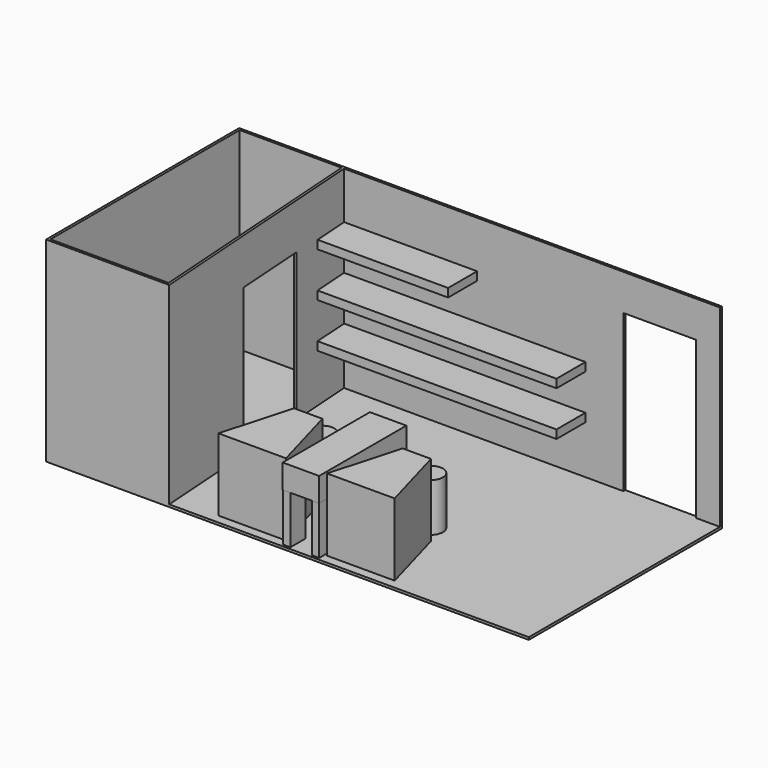
from build123d import *

# Parameters (mm, degrees)
F0_W      = 508
F0_H      = 254
F1_DEPTH  = 2.54
F3_DEPTH  = 203.2
F5_DEPTH  = 203.2
F6_W      = 76.2
F6_H      = 155.0987733221
F7_DEPTH  = 25.4
F9_DEPTH  = 76.2
F10_W     = 7.7724000598
F10_H     = 15.7987965533
F10_H_2   = 18.846809864
F10_H_3   = 19.9136117986
F11_DEPTH = 76.2
F12_W     = 38.3358041449
F12_H     = 114.723880429
F13_DEPTH = 25.4
F14_R     = 12.7
F15_DEPTH = 50.8
F16_W     = 76.2
F16_H     = 165.1
F17_DEPTH = 25.4
F18_W     = 254
F18_H     = 8.89
F18_W_2   = 139.9702800131
F19_DEPTH = 38.1


with BuildPart() as f1:
    # F0 (on Top) → F1 (new body)
    with BuildSketch(Plane.XY):
        with Locations((1.6115792096, -65.0062360242)):
            Rectangle(F0_W, F0_H)
    extrude(amount=F1_DEPTH)

    # F2 (on face) → F3 (join)
    with BuildSketch(Plane.XY.offset(2.54)):
        Polygon((-252.3884207904, 61.9937639758), (-252.3884207904, -192.0062360242), (-249.8484207904, -192.0062360242), (-249.8484207904, 59.4537639758), (255.6115792096, 59.4537639758), (255.6115792096, 61.9937639758), align=None)
    extrude(amount=F3_DEPTH)

    # F4 (on face) → F5 (join)
    with BuildSketch(Plane.XY.offset(2.54)):
        Polygon((-249.8484207904, -189.4662360242), (-249.8484207904, -192.0062360242), (-122.8484207904, -192.0062360242), (-139.9702800131, 59.4537639758), (-142.5102800131, 59.4537639758), (-125.5613688634, -189.4662360242), align=None)
    extrude(amount=F5_DEPTH)

    # F6 (on face) → F7 (cut)
    with BuildSketch(Plane(origin=(-135.2948289897, -9.2121968326, 0), x_dir=(-0.0679324996, 0.9976899195, 0), z_dir=(0.9976899195, 0.0679324996, 0))):
        with Locations((-38.1, 80.0893866611)):
            Rectangle(F6_W, F6_H)
    extrude(amount=-F7_DEPTH, mode=Mode.SUBTRACT)

    # F8 (on face) → F9 (join)
    with BuildSketch(Plane.XY.offset(2.54)):
        Polygon((-78.7540227175, -182.3542267084), (-43.1940241251, -182.3542267084), (-7.6340255328, -182.3542267084), (-28.2588265836, -108.7450310588), (-43.1940241251, -108.7450310588), (-58.1292216666, -108.7450310588), align=None)
    extrude(amount=F9_DEPTH)

    # F10 (on face) → F11 (join)
    with BuildSketch(Plane.XY.offset(2.54)):
        with Locations((-1.2078255029, -83.0656343008)):
            Rectangle(F10_W, F10_H)
        with Locations((-1.2078255029, -132.7480375767)):
            Rectangle(F10_W, F10_H_2)
        with Locations((-1.2078255029, -179.5094301249)):
            Rectangle(F10_W, F10_H_3)
        with Locations((29.1197744374, -83.0656343008)):
            Rectangle(F10_W, F10_H)
        with Locations((29.1197744374, -132.7480375767)):
            Rectangle(F10_W, F10_H_2)
        with Locations((29.1197744374, -179.5094301249)):
            Rectangle(F10_W, F10_H_3)
        Polygon((86.0411706011, -108.7450310588), (56.1707755181, -108.7450310588), (35.5459744672, -182.3542267084), (106.665971652, -182.3542267084), align=None)
    extrude(amount=F11_DEPTH)

    # F12 (on face) → F13 (join)
    with BuildSketch(Plane.XY.offset(78.74)):
        with Locations((14.0738765397, -132.5281762387)):
            Rectangle(F12_W, F12_H)
    extrude(amount=-F13_DEPTH)

    # F14 (on face) → F15 (join)
    with BuildSketch(Plane.XY.offset(2.54)):
        with Locations((-43.1940241251, -90.2538299561)):
            Circle(F14_R)
        with Locations((71.1059730596, -90.2538299561)):
            Circle(F14_R)
    extrude(amount=F15_DEPTH)

    # F16 (on face) → F17 (cut)
    with BuildSketch(Plane.XZ.offset(-59.4537639758)):
        with Locations((192.1115792096, 85.09)):
            Rectangle(F16_W, F16_H)
    extrude(amount=-F17_DEPTH, mode=Mode.SUBTRACT)

    # F18 (on face) → F19 (join)
    with BuildSketch(Plane.XZ.offset(-59.4537639758)):
        with Locations((-12.9702800131, 57.785)):
            Rectangle(F18_W, F18_H)
        with Locations((-12.9702800131, 104.775)):
            Rectangle(F18_W, F18_H)
        with Locations((-69.9851400065, 151.765)):
            Rectangle(F18_W_2, F18_H)
    extrude(amount=F19_DEPTH)


solid = f1.part
